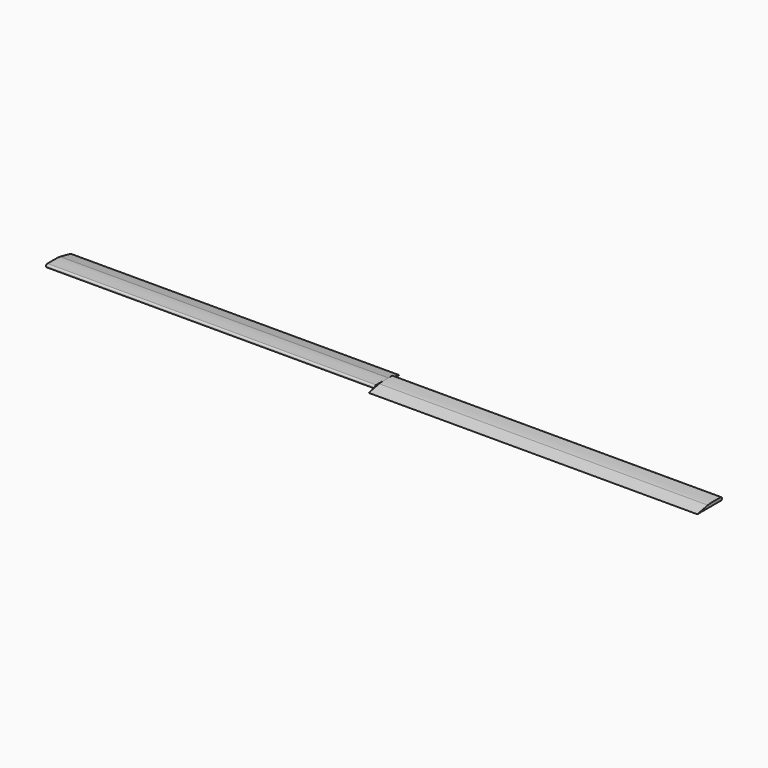
from build123d import *

# Parameters (mm, degrees)
F1_DEPTH = 1524
F3_COUNT = 2


with BuildPart() as f1:
    # F0 (on Right) → F1 (new body)
    with BuildSketch(Plane.YZ):
        with BuildLine():
            Line((-48.3209230006, 54.324131459), (88.8671949506, 54.324131459))
            Line((88.8671949506, 54.324131459), (28.4414403141, 66.9210329652))
            add(Edge.make_bspline(
                [(28.4414403141, 66.9210329652), (25.4100729982, 67.5161840208), (15.3028664215, 69.5005409252), (-20.6160864777, 69.1410026238), (-45.7621775568, 68.889297545)],
                knots=[0, 0, 0, 0, 0.2999213772, 1, 1, 1, 1], degree=3))
            ThreePointArc((-45.7621775568, 68.889297545), (-53.3739834154, 62.7191689938), (-48.3209230006, 54.324131459))
        make_face()
    extrude(amount=-F1_DEPTH)


with BuildPart() as f3_1:
    # F3: instance of F1
    add(f1.part.rotate(Axis((0, 0, 0), (0, 0, 1)), 1 * 360 / F3_COUNT))


solid = Compound([f1.part, f3_1.part])
